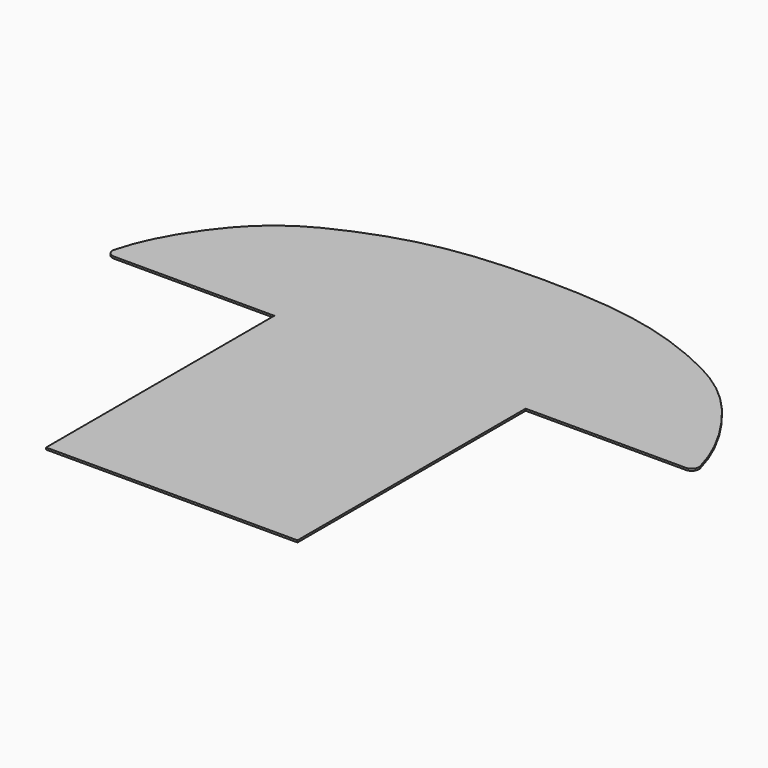
from build123d import *

# Parameters (mm, degrees)
F1_DEPTH = 5.08
F3_R     = 19.05


with BuildPart() as f1:
    # F0 (on Top) → F1 (new body)
    with BuildSketch(Plane.XY):
        with BuildLine():
            Line((330.2, -749.3), (330.2, 0))
            Line((330.2, 0), (774.7, 0))
            add(Edge.make_bspline(
                [(533.4, 346.075), (573.7217347806, 321.0394014687), (657.0955955977, 255.5096820003), (758.6746607985, 90.8842148666), (774.7, 0)],
                knots=[0, 0, 0, 0, 0.4240239998, 1, 1, 1, 1], degree=3))
            add(Edge.make_bspline(
                [(0, 469.9), (117.6640682839, 469.9), (314.566634033, 454.9110276808), (496.6869354248, 368.8699901104), (533.4, 346.075)],
                knots=[0, 0, 0, 0, 0.5510985779, 1, 1, 1, 1], degree=3))
            Line((0, 469.9), (0, 0))
            Line((0, 0), (0, -749.3))
            Line((0, -749.3), (330.2, -749.3))
        make_face()
    extrude(amount=F1_DEPTH)

    # F2: F1 across face


with BuildPart() as f1_1:
    add(f1.part)
    add(f1.part.mirror(Plane(origin=(0, -139.7, 2.54), x_dir=(0, -1, 0), z_dir=(-1, 0, 0))))

    # F3
    f3_edges = [f1_1.edges().sort_by_distance(p)[0] for p in [
        (774.7, 0, 2.54),
        (-774.7, 0, 2.54),
    ]]
    fillet(f3_edges, radius=F3_R)


solid = f1_1.part
